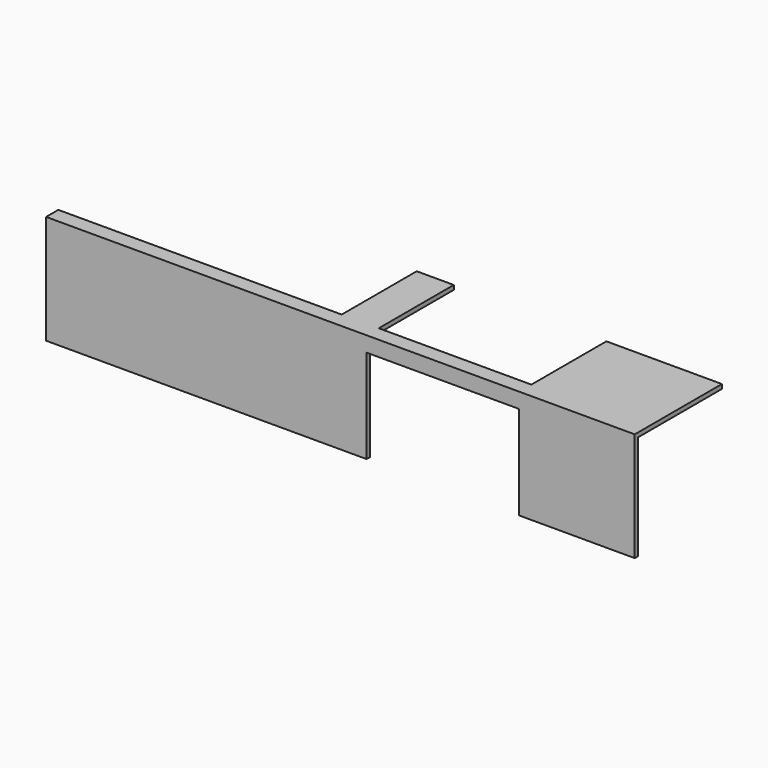
from build123d import *

# Parameters (mm, degrees)
F0_W     = 1
F0_H     = 24
F0_H_2   = 1
F0_W_2   = 24
F1_DEPTH = 135
F2_W     = 65
F2_H     = 21.5
F2_W_2   = 35
F3_DEPTH = 1
F4_W     = 35
F4_H     = 21.5
F5_DEPTH = 1


with BuildPart() as f1:
    # F0 (on Right) → F1 (new body)
    with BuildSketch(Plane.YZ):
        with Locations((-64.544081, 31.736633)):
            Rectangle(F0_W, F0_H)
        with Locations((-64.544081, 44.236633)):
            Rectangle(F0_W, F0_H_2)
        with Locations((-52.044081, 44.236633)):
            Rectangle(F0_W_2, F0_H_2)
    extrude(amount=F1_DEPTH)

    # F2 (on face) → F3 (cut)
    with BuildSketch(Plane.XY.offset(44.736633)):
        with Locations((32.5, -50.794081)):
            Rectangle(F2_W, F2_H)
        with Locations((91, -50.794081)):
            Rectangle(F2_W_2, F2_H)
    extrude(amount=-F3_DEPTH, mode=Mode.SUBTRACT)

    # F4 (on face) → F5 (cut)
    with BuildSketch(Plane.XZ.offset(65.044081)):
        with Locations((91, 30.486633)):
            Rectangle(F4_W, F4_H)
    extrude(amount=-F5_DEPTH, mode=Mode.SUBTRACT)


solid = f1.part
